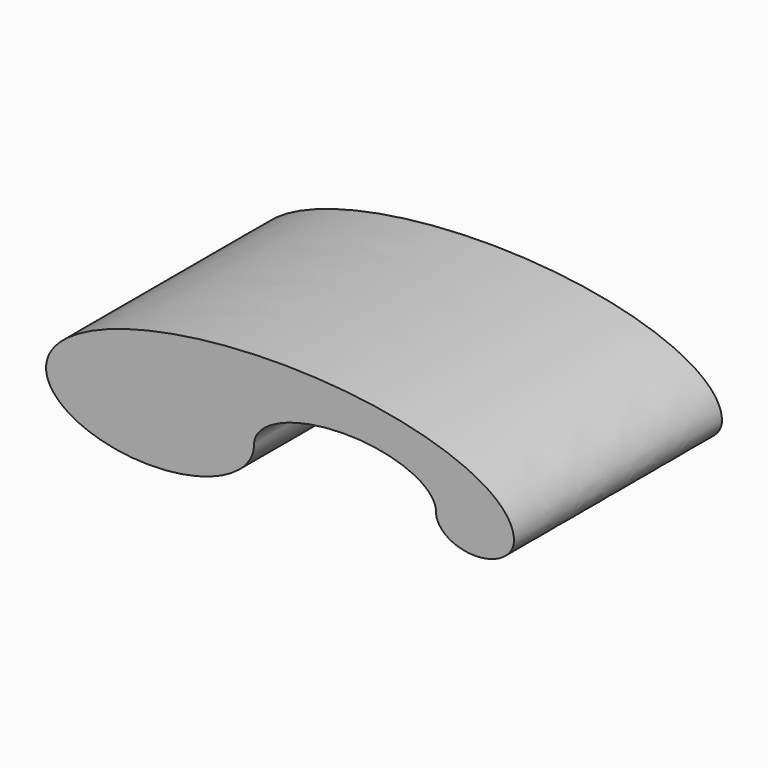
from build123d import *

# Parameters (mm, degrees)
F1_DEPTH = 50


with BuildPart() as f1:
    # F0 (on Front) → F1 (new body)
    with BuildSketch(Plane.XZ):
        with BuildLine():
            add(Edge.make_bspline(
                [(-15, 0), (-15, -5), (-7.5, -5), (0, -5), (0, 0)],
                knots=[0, 0, 0, 1.5707963268, 1.5707963268, 3.1415926536, 3.1415926536, 3.1415926536], degree=2, weights=[1, 0.7071067812, 1, 0.7071067812, 1]))
            add(Edge.make_bspline(
                [(0, 0), (0, 15.3680520568), (-45, 15.3680520568), (-90, 15.3680520568), (-90, 0)],
                knots=[0, 0, 0, 1.5707963268, 1.5707963268, 3.1415926536, 3.1415926536, 3.1415926536], degree=2, weights=[1, 0.7071067812, 1, 0.7071067812, 1]))
            add(Edge.make_bspline(
                [(-90, 0), (-90, -10), (-70, -10), (-50, -10), (-50, 0)],
                knots=[0, 0, 0, 1.5707963268, 1.5707963268, 3.1415926536, 3.1415926536, 3.1415926536], degree=2, weights=[1, 0.7071067812, 1, 0.7071067812, 1]))
            add(Edge.make_bspline(
                [(-15, 0), (-15, 7.5), (-32.5, 7.5), (-50, 7.5), (-50, 0)],
                knots=[3.1415926536, 3.1415926536, 3.1415926536, 4.7123889804, 4.7123889804, 6.2831853072, 6.2831853072, 6.2831853072], degree=2, weights=[1, 0.7071067812, 1, 0.7071067812, 1]))
        make_face()
    extrude(amount=F1_DEPTH)


solid = f1.part
